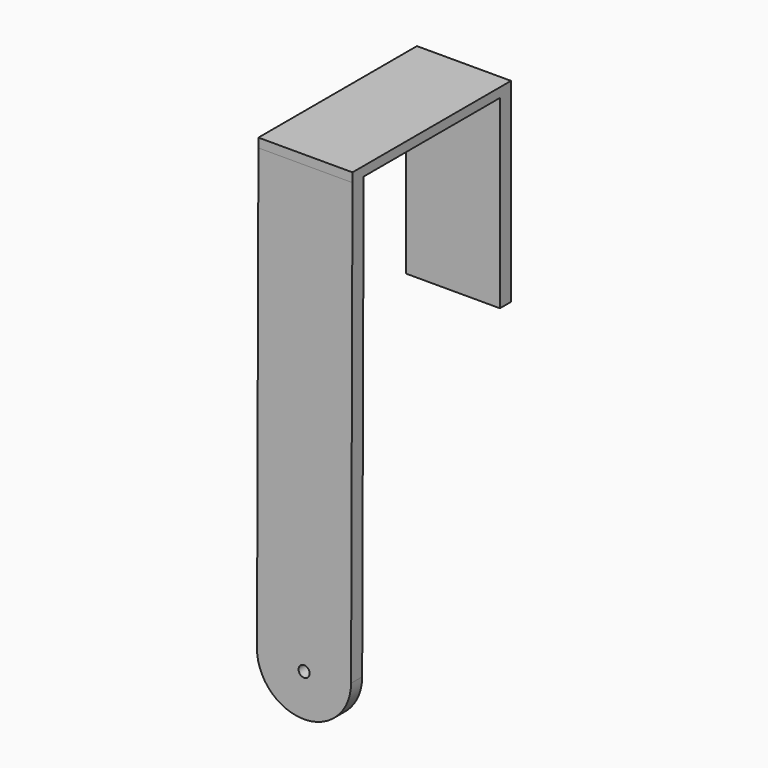
from build123d import *

# Parameters (mm, degrees)
F0_W     = 3.75
F0_H     = 50
F1_DEPTH = 25.4
F2_R     = 1.5
F3_DEPTH = 3.75
F4_R     = 12.6501077242


with BuildPart() as f1:
    # F0 (on Right) → F1 (new body)
    with BuildSketch(Plane.YZ):
        Polygon((-51.8451631069, 20.965634957), (-48.095487799, 20.8846080303), (-2.095487799, 20.8846080303), (1.654512201, 20.8846080303), (1.654512201, 23.4246080303), (-51.8451631069, 23.4246080303), align=None)
        Polygon((-48.6218297482, -110.4640364647), (-48.095487799, 20.8846080303), (-51.8451631069, 20.965634957), (-52.3718297482, -110.4640364647), align=None)
        with Locations((-0.220487799, -4.1153919697)):
            Rectangle(F0_W, F0_H)
    extrude(amount=F1_DEPTH)

    # F2 (on face) → F3 (cut)
    with BuildSketch(Plane(origin=(0, -51.9283430119, 0.2080879127), x_dir=(1, 0, 0), z_dir=(0, -0.9999919712, 0.0040071805))):
        with Locations((12.722876047, -99.3401251781)):
            Circle(F2_R)
    extrude(amount=-F3_DEPTH, mode=Mode.SUBTRACT)

    # F4
    f4_edges = [f1.edges().sort_by_distance(p)[0] for p in [
        (25.4, -50.49683, -110.464036),
        (0, -50.49683, -110.464036),
    ]]
    fillet(f4_edges, radius=F4_R)


solid = f1.part
